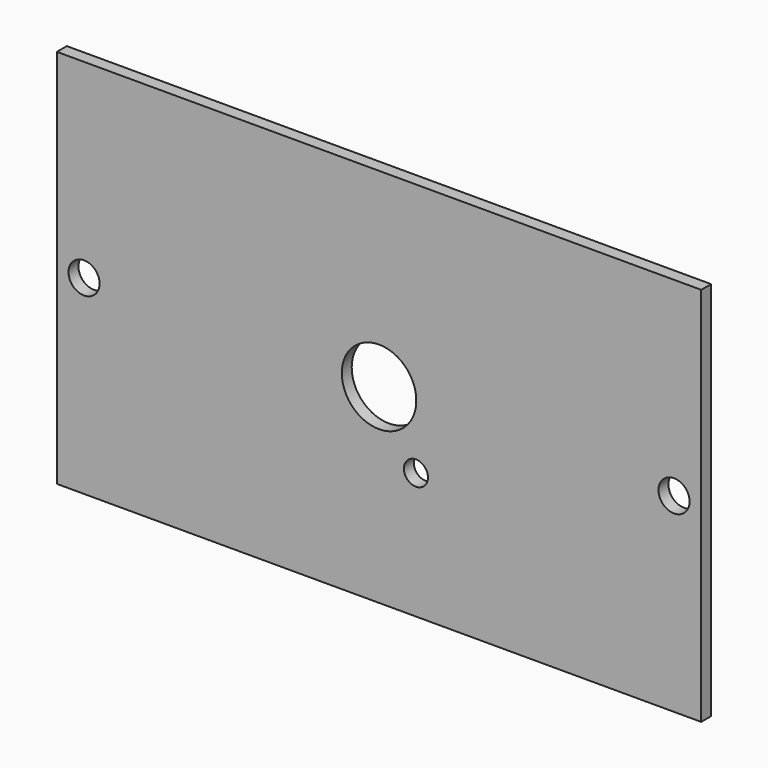
from build123d import *

# Parameters (mm, degrees)
F0_W     = 83
F0_H     = 49
F1_DEPTH = 1.6
F3_D     = 4
F4_D     = 9.6
F5_D     = 3.1


with BuildPart() as f1:
    # F0 (on Front) → F1 (new body)
    with BuildSketch(Plane.XZ):
        with Locations((0, -3.527498)):
            Rectangle(F0_W, F0_H)
    extrude(amount=-F1_DEPTH)

    # F3 (through all)
    with Locations(Plane.XZ):
        with Locations((-38, -3.527498), (38, -3.527498)):
            Hole(F3_D / 2)

    # F4 (through all)
    with Locations(Plane.XZ):
        with Locations((0, -3.527498)):
            Hole(F4_D / 2)

    # F5 (through all)
    with Locations(Plane.XZ):
        with Locations((4.75, -11.754739)):
            Hole(F5_D / 2)


solid = f1.part
